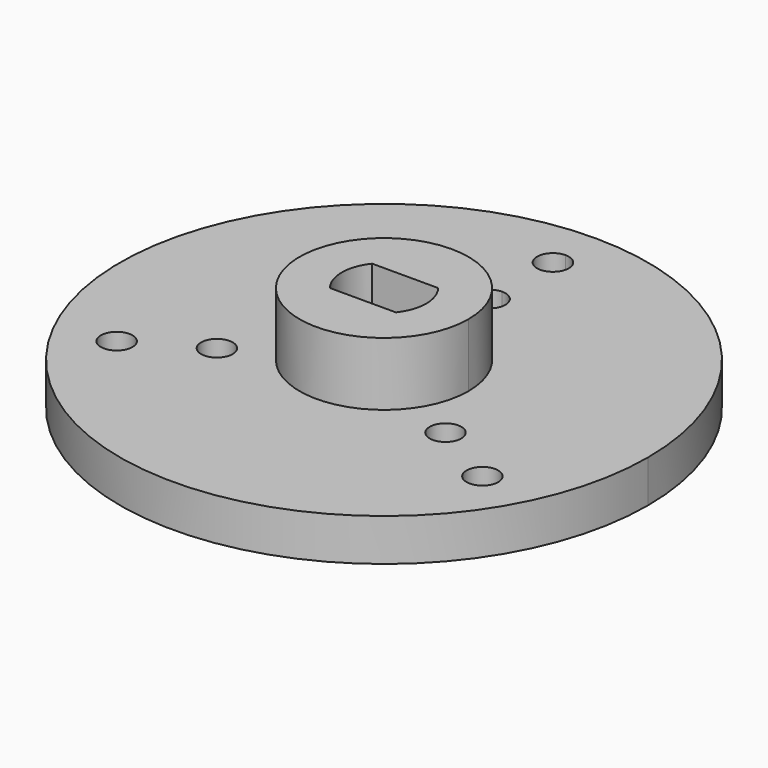
from build123d import *

# Parameters (mm, degrees)
F0_R     = 0.75
F1_DEPTH = 2
F2_DEPTH = 5


with BuildPart() as f1:
    # F0 (on Top) → F1 (new body)
    with BuildSketch(Plane.XY):
        with BuildLine():
            ThreePointArc((12.5, 0), (8.8388347648, 8.8388347648), (0, 12.5))
            ThreePointArc((0, 12.5), (-8.8388347648, -8.8388347648), (12.5, 0))
        make_face()
        with Locations((-8.6602540378, -5)):
            Circle(F0_R, mode=Mode.SUBTRACT)
        with Locations((-5.4126587737, -3.125)):
            Circle(F0_R, mode=Mode.SUBTRACT)
        with Locations((5.4126587737, -3.125)):
            Circle(F0_R, mode=Mode.SUBTRACT)
        with Locations((8.6602540378, -5)):
            Circle(F0_R, mode=Mode.SUBTRACT)
        with BuildLine():
            ThreePointArc((4, 0), (-2.8284271247, -2.8284271247), (0, 4))
            ThreePointArc((0, 4), (2.8284271247, 2.8284271247), (4, 0))
        make_face(mode=Mode.SUBTRACT)
        with BuildLine():
            ThreePointArc((0.75, 6.25), (0.5303300859, 5.7196699141), (0, 5.5))
            ThreePointArc((0, 5.5), (-0.75, 6.25), (0, 7))
            ThreePointArc((0, 7), (0.5303300859, 6.7803300859), (0.75, 6.25))
        make_face(mode=Mode.SUBTRACT)
        with BuildLine():
            ThreePointArc((0.75, 10), (0.5303300859, 9.4696699141), (0, 9.25))
            ThreePointArc((0, 9.25), (-0.75, 10), (0, 10.75))
            ThreePointArc((0, 10.75), (0.5303300859, 10.5303300859), (0.75, 10))
        make_face(mode=Mode.SUBTRACT)
    extrude(amount=F1_DEPTH)

    # F0 (on Top) → F2 (join)
    with BuildSketch(Plane.XY):
        with BuildLine():
            ThreePointArc((4, 0), (2.8284271247, 2.8284271247), (0, 4))
            ThreePointArc((0, 4), (-2.8284271247, -2.8284271247), (4, 0))
        make_face()
        with BuildLine():
            ThreePointArc((1.5612494996, 1.25), (1.8871273141, 0.6623824427), (2, 0))
            ThreePointArc((2, 0), (1.8871273141, -0.6623824427), (1.5612494996, -1.25))
            ThreePointArc((1.5612494996, -1.25), (0, -2), (-1.5612494996, -1.25))
            ThreePointArc((-1.5612494996, -1.25), (-2, 0), (-1.5612494996, 1.25))
            ThreePointArc((-1.5612494996, 1.25), (-0.8660254038, 1.8027756377), (0, 2))
            ThreePointArc((0, 2), (0.8660254038, 1.8027756377), (1.5612494996, 1.25))
        make_face(mode=Mode.SUBTRACT)
        with BuildLine():
            Line((0, 1.25), (1.5612494996, 1.25))
            ThreePointArc((1.5612494996, 1.25), (0.8660254038, 1.8027756377), (0, 2))
            Line((0, 2), (0, 1.25))
        make_face()
        with BuildLine():
            Line((0, 1.25), (0, 2))
            ThreePointArc((0, 2), (-0.8660254038, 1.8027756377), (-1.5612494996, 1.25))
            Line((-1.5612494996, 1.25), (0, 1.25))
        make_face()
        with BuildLine():
            ThreePointArc((-1.5612494996, -1.25), (0, -2), (1.5612494996, -1.25))
            Line((1.5612494996, -1.25), (-1.5612494996, -1.25))
        make_face()
    extrude(amount=F2_DEPTH)


solid = f1.part
